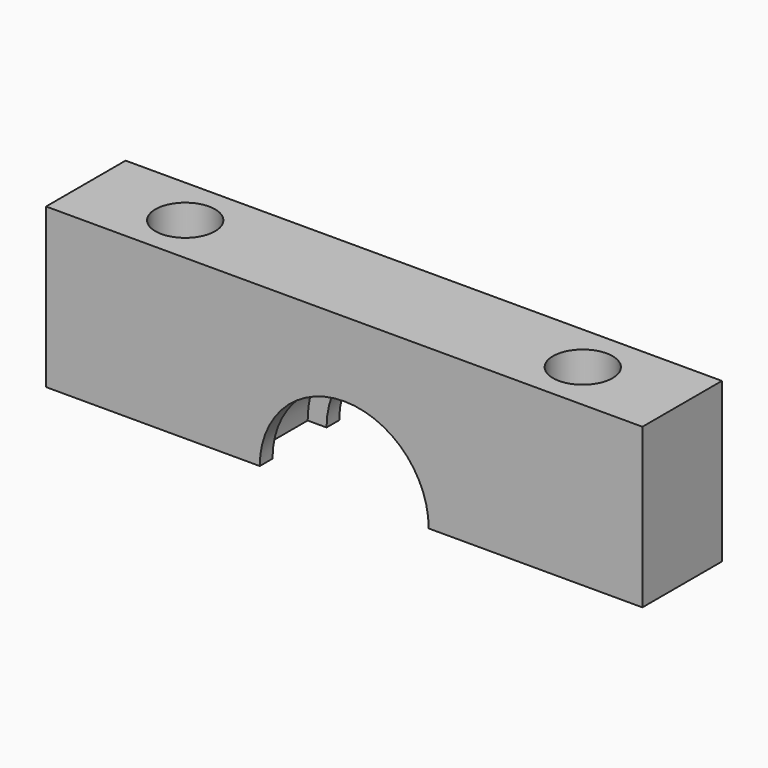
from build123d import *

# Parameters (mm, degrees)
F0_W     = 30
F0_H     = 5
F1_DEPTH = 8
F2_R     = 4.25
F3_DEPTH = 5
F4_R     = 5.2
F5_DEPTH = 1.7
F6_R     = 1.5
F7_DEPTH = 8.001


with BuildPart() as f1:
    # F0 (on Top) → F1 (new body)
    with BuildSketch(Plane.XY):
        Rectangle(F0_W, F0_H)
    extrude(amount=F1_DEPTH)

    # F2 (on Front) → F3 (cut, symmetric)
    with BuildSketch(Plane.XZ):
        Circle(F2_R)
    extrude(amount=F3_DEPTH, both=True, mode=Mode.SUBTRACT)

    # F4 (on Front) → F5 (cut, symmetric)
    with BuildSketch(Plane.XZ):
        Circle(F4_R)
    extrude(amount=F5_DEPTH, both=True, mode=Mode.SUBTRACT)

    # F6 (on face) → F7 (cut, through all)
    with BuildSketch(Plane.XY.offset(8)):
        with Locations((-10, 0)):
            Circle(F6_R)
        with Locations((10, 0)):
            Circle(F6_R)
    extrude(amount=-F7_DEPTH, mode=Mode.SUBTRACT)


solid = f1.part
